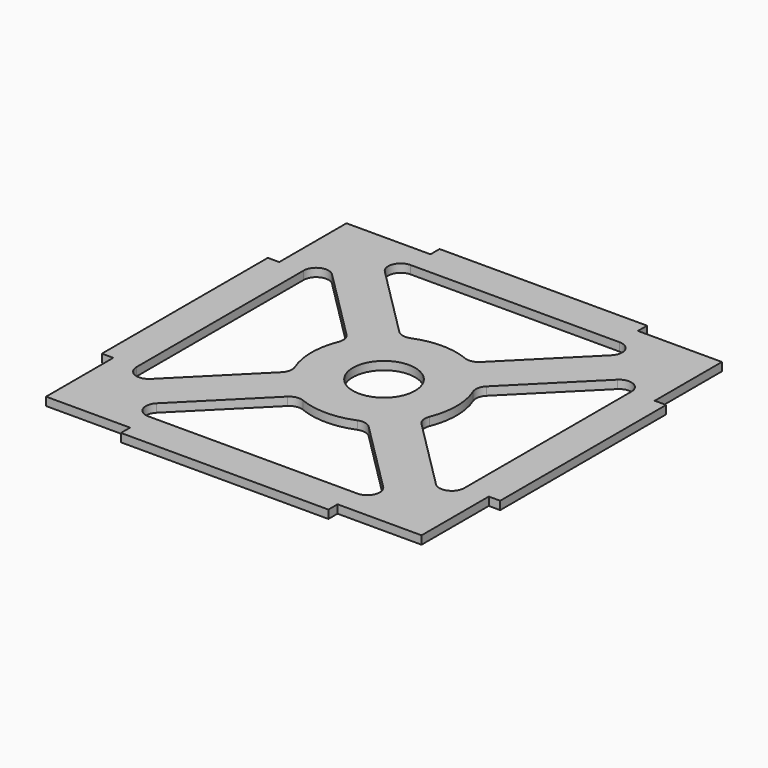
from build123d import *

# Parameters (mm, degrees)
F1_DEPTH = 2
F2_R     = 7.5
F3_DEPTH = 25
F4_R     = 3


with BuildPart() as f1:
    # F0 (on Top) → F1 (new body)
    with BuildSketch(Plane.XY):
        Polygon((25, 45.25), (25, 48), (-25, 48), (-25, 45.25), (-45.25, 45.25), (-45.25, 25), (-48, 25), (-48, -25), (-45.25, -25), (-45.25, -45.25), (-25, -45.25), (-25, -48), (25, -48), (25, -45.25), (45.25, -45.25), (45.25, -25), (48, -25), (48, 25), (45.25, 25), (45.25, 45.25), align=None)
    extrude(amount=F1_DEPTH)

    # F2 (on face) → F3 (cut)
    with BuildSketch(Plane.XY.offset(2)):
        with BuildLine():
            ThreePointArc((-15.394075, -8.323007), (-17.5, 0), (-15.394075, 8.323007))
            Line((-15.394075, 8.323007), (-39.5, 32.428932))
            Line((-39.5, 32.428932), (-39.5, -32.428932))
            Line((-39.5, -32.428932), (-15.394075, -8.323007))
        make_face()
        with BuildLine():
            Line((-32.428932, 39.5), (-8.323007, 15.394075))
            ThreePointArc((-8.323007, 15.394075), (0, 17.5), (8.323007, 15.394075))
            Line((8.323007, 15.394075), (32.428932, 39.5))
            Line((32.428932, 39.5), (-32.428932, 39.5))
        make_face()
        Circle(F2_R)
        with BuildLine():
            ThreePointArc((15.394075, 8.323007), (17.5, 0), (15.394075, -8.323007))
            Line((15.394075, -8.323007), (39.5, -32.428932))
            Line((39.5, -32.428932), (39.5, 32.428932))
            Line((39.5, 32.428932), (15.394075, 8.323007))
        make_face()
        with BuildLine():
            Line((-32.428932, -39.5), (32.428932, -39.5))
            Line((32.428932, -39.5), (8.323007, -15.394075))
            ThreePointArc((8.323007, -15.394075), (0, -17.5), (-8.323007, -15.394075))
            Line((-8.323007, -15.394075), (-32.428932, -39.5))
        make_face()
    extrude(amount=-F3_DEPTH, mode=Mode.SUBTRACT)

    # F4
    f4_edges = [f1.edges().sort_by_distance(p)[0] for p in [
        (-39.5, 32.428932, 1),
        (-15.394075, -8.323007, 1),
        (-15.394075, 8.323007, 1),
        (8.323007, 15.394075, 1),
        (-8.323007, 15.394075, 1),
        (-32.428932, -39.5, 1),
        (15.394075, -8.323007, 1),
        (15.394075, 8.323007, 1),
        (39.5, -32.428932, 1),
        (39.5, 32.428932, 1),
        (32.428932, 39.5, 1),
        (32.428932, -39.5, 1),
        (-39.5, -32.428932, 1),
        (-32.428932, 39.5, 1),
        (-8.323007, -15.394075, 1),
        (8.323007, -15.394075, 1),
    ]]
    fillet(f4_edges, radius=F4_R)


solid = f1.part
